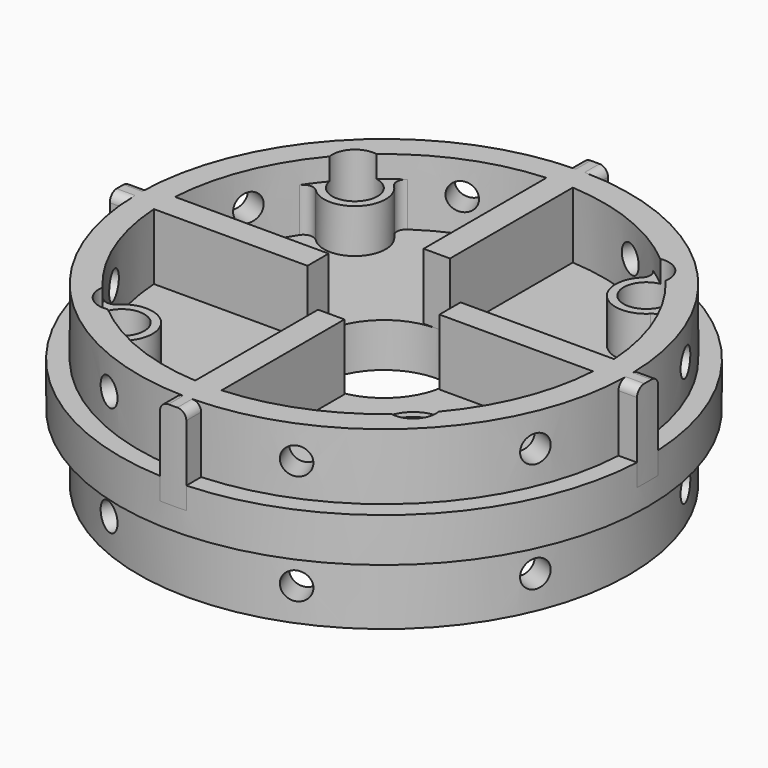
from build123d import *

# Parameters (mm, degrees)
SKETCH_R              = 30
SKETCH_R_2            = 7.5
PAD_DEPTH             = 5
SKETCH001_R           = 27.9
PAD001_DEPTH          = 7.5
SKETCH003_R           = 1.55
POCKET_DEPTH          = 5
SKETCH004_R           = 1.55
POCKET001_DEPTH       = 5
POLARPATTERN_COUNT    = 4
SKETCH005_R           = 27.9
PAD002_DEPTH          = 7.5
SKETCH007_R           = 1.55
POCKET002_DEPTH       = 5
SKETCH008_R           = 1.55
POCKET003_DEPTH       = 5
POLARPATTERN001_COUNT = 4
PAD003_DEPTH          = 15
SKETCH012_R           = 2.575
POCKET004_DEPTH       = 194.356958
POLARPATTERN002_COUNT = 4
POLARPATTERN003_COUNT = 4
PAD004_DEPTH          = 10
POLARPATTERN004_COUNT = 4
FILLET_R              = 1


with BuildPart() as part:
    # Sketch → Pad (new body)
    with BuildSketch(Plane.XY):
        Circle(SKETCH_R)
        Circle(SKETCH_R_2, mode=Mode.SUBTRACT)
    extrude(amount=PAD_DEPTH)

    # Sketch001 (on Face3 of Pad) → Pad001 (join)
    with BuildSketch(Plane(origin=(0, 0, 0), x_dir=(1, 0, 0), z_dir=(0, 0, -1))):
        Circle(SKETCH001_R)
        with BuildLine():
            ThreePointArc((-1.5, 24.954959), (-17.67767, 17.67767), (-24.954959, 1.5))
            Line((-18.6, 1.5), (-24.954959, 1.5))
            Line((-18.6, -1.5), (-18.6, 1.5))
            Line((-24.954959, -1.5), (-18.6, -1.5))
            ThreePointArc((-24.954959, -1.5), (-17.67767, -17.67767), (-1.5, -24.954959))
            Line((-1.5, -18.6), (-1.5, -24.954959))
            Line((1.5, -18.6), (-1.5, -18.6))
            Line((1.5, -24.954959), (1.5, -18.6))
            ThreePointArc((1.5, -24.954959), (17.67767, -17.67767), (24.954959, -1.5))
            Line((18.6, -1.5), (24.954959, -1.5))
            Line((18.6, 1.5), (18.6, -1.5))
            Line((24.954959, 1.5), (18.6, 1.5))
            ThreePointArc((24.954959, 1.5), (17.67767, 17.67767), (1.5, 24.954959))
            Line((1.5, 18.6), (1.5, 24.954959))
            Line((-1.5, 18.6), (1.5, 18.6))
            Line((-1.5, 24.954959), (-1.5, 18.6))
        make_face(mode=Mode.SUBTRACT)
    extrude(amount=PAD001_DEPTH)

    # Sketch003 (on DatumPlane) → Pocket (cut)
    with BuildSketch(Plane(origin=(25.776239, 10.676868, -7.5), x_dir=(0.382683, -0.92388, 0), z_dir=(-0.92388, -0.382683, 0))):
        with Locations((0, 3.75)):
            Circle(SKETCH003_R)
    pocket = extrude(amount=POCKET_DEPTH, mode=Mode.SUBTRACT)

    # Sketch004 (on DatumPlane) → Pocket001 (cut)
    with BuildSketch(Plane(origin=(25.776239, -10.676868, -7.5), x_dir=(-0.382683, -0.92388, 0), z_dir=(-0.92388, 0.382683, 0))):
        with Locations((0, 3.75)):
            Circle(SKETCH004_R)
    pocket001 = extrude(amount=POCKET001_DEPTH, mode=Mode.SUBTRACT)

    # PolarPattern: Pocket, Pocket001 ×4 about axis
    polarpattern_axis = Axis((0, 0, 0), (0, 0, 1))
    for i in range(1, POLARPATTERN_COUNT):
        add(pocket.rotate(polarpattern_axis, i * 360 / POLARPATTERN_COUNT), mode=Mode.SUBTRACT)
        add(pocket001.rotate(polarpattern_axis, i * 360 / POLARPATTERN_COUNT), mode=Mode.SUBTRACT)

    # Sketch005 (on Face3 of PolarPattern) → Pad002 (join)
    with BuildSketch(Plane.XY.offset(5)):
        Circle(SKETCH005_R)
        with BuildLine():
            ThreePointArc((-1.5, 24.954959), (-17.67767, 17.67767), (-24.954959, 1.5))
            Line((-7.499993, 1.5), (-24.954959, 1.5))
            Line((-7.499993, -1.5), (-7.499993, 1.5))
            Line((-24.954959, -1.5), (-7.499993, -1.5))
            ThreePointArc((-24.954959, -1.5), (-17.67767, -17.67767), (-1.5, -24.954959))
            Line((-1.5, -7.499993), (-1.5, -24.954959))
            Line((1.5, -7.499993), (-1.5, -7.499993))
            Line((1.5, -24.954959), (1.5, -7.499993))
            ThreePointArc((1.5, -24.954959), (17.67767, -17.67767), (24.954959, -1.5))
            Line((7.499993, -1.5), (24.954959, -1.5))
            Line((7.499993, 1.5), (7.499993, -1.5))
            Line((24.954959, 1.5), (7.499993, 1.5))
            ThreePointArc((24.954959, 1.5), (17.67767, 17.67767), (1.5, 24.954959))
            Line((1.5, 7.499993), (1.5, 24.954959))
            Line((-1.5, 7.499993), (1.5, 7.499993))
            Line((-1.5, 24.954959), (-1.5, 7.499993))
        make_face(mode=Mode.SUBTRACT)
    extrude(amount=PAD002_DEPTH)

    # Sketch007 (on DatumPlane) → Pocket002 (cut)
    with BuildSketch(Plane(origin=(25.776239, 10.676868, 12.5), x_dir=(0.382683, -0.92388, 0), z_dir=(-0.92388, -0.382683, 0))):
        with Locations((0, -3.75)):
            Circle(SKETCH007_R)
    pocket002 = extrude(amount=POCKET002_DEPTH, mode=Mode.SUBTRACT)

    # Sketch008 (on DatumPlane) → Pocket003 (cut)
    with BuildSketch(Plane(origin=(25.776239, -10.676868, 12.5), x_dir=(-0.382683, -0.92388, 0), z_dir=(-0.92388, 0.382683, 0))):
        with Locations((0, -3.75)):
            Circle(SKETCH008_R)
    pocket003 = extrude(amount=POCKET003_DEPTH, mode=Mode.SUBTRACT)

    # PolarPattern001: Pocket003, Pocket002 ×4 about axis
    polarpattern001_axis = Axis((0, 0, 0), (0, 0, 1))
    for i in range(1, POLARPATTERN001_COUNT):
        add(pocket003.rotate(polarpattern001_axis, i * 360 / POLARPATTERN001_COUNT), mode=Mode.SUBTRACT)
        add(pocket002.rotate(polarpattern001_axis, i * 360 / POLARPATTERN001_COUNT), mode=Mode.SUBTRACT)

    # Sketch009 (on DatumPlane) → Pad003 (join)
    with BuildSketch(Plane.XY.offset(10)):
        with BuildLine():
            ThreePointArc((14.091153, 19.040901), (14.091153, 14.091153), (19.040901, 14.091153))
            ThreePointArc((20.764273, 13.922821), (19.942353, 14.414109), (19.040901, 14.091153))
            Line((22.29154, 14.946881), (20.764273, 13.922821))
            Line((14.62058, 21.8049), (22.29154, 14.946881))
            Line((13.922821, 20.764273), (14.62058, 21.8049))
            ThreePointArc((14.091153, 19.040901), (14.414109, 19.942353), (13.922821, 20.764273))
        make_face()
    pad003 = extrude(amount=-PAD003_DEPTH)

    # Sketch012 (on Face15 of Pad003) → Pocket004 (cut, through all)
    with BuildSketch(Plane.XY.offset(12.5)):
        with Locations((16.566027, 16.566027)):
            Circle(SKETCH012_R)
    pocket004 = extrude(amount=-POCKET004_DEPTH, mode=Mode.SUBTRACT)

    # PolarPattern002: Pad003 ×4 about axis
    polarpattern002_axis = Axis((0, 0, 10), (0, 0, 1))
    for i in range(1, POLARPATTERN002_COUNT):
        add(pad003.rotate(polarpattern002_axis, i * 360 / POLARPATTERN002_COUNT))

    # PolarPattern003: Pocket004 ×4 about axis
    polarpattern003_axis = Axis((0, 0, 12.5), (0, 0, 1))
    for i in range(1, POLARPATTERN003_COUNT):
        add(pocket004.rotate(polarpattern003_axis, i * 360 / POLARPATTERN003_COUNT), mode=Mode.SUBTRACT)

    # Sketch013 (on Face15 of PolarPattern003) → Pad004 (join)
    with BuildSketch(Plane.XY.offset(12.5)):
        with BuildLine():
            Line((27.476015, 1.5), (29.962477, 1.5))
            ThreePointArc((29.962477, -1.5), (30, 0), (29.962477, 1.5))
            Line((29.962477, -1.5), (27.476015, -1.5))
            Line((27.476015, -1.5), (27.476015, 1.5))
        make_face()
    pad004 = extrude(amount=-PAD004_DEPTH)

    # PolarPattern004: Pad004 ×4 about axis
    polarpattern004_axis = Axis((0, 0, 12.5), (0, 0, 1))
    for i in range(1, POLARPATTERN004_COUNT):
        add(pad004.rotate(polarpattern004_axis, i * 360 / POLARPATTERN004_COUNT))

    # Fillet
    fillet_edges = [part.edges().sort_by_distance(p)[0] for p in [
        (-1.5, 28.911062, 12.5),
        (1.5, 28.911062, 12.5),
        (-28.911062, 1.5, 12.5),
        (-28.911062, -1.5, 12.5),
        (-1.5, -28.911062, 12.5),
        (1.5, -28.911062, 12.5),
        (28.911062, 1.5, 12.5),
        (28.911062, -1.5, 12.5),
    ]]
    fillet(fillet_edges, radius=FILLET_R)


solid = part.part
